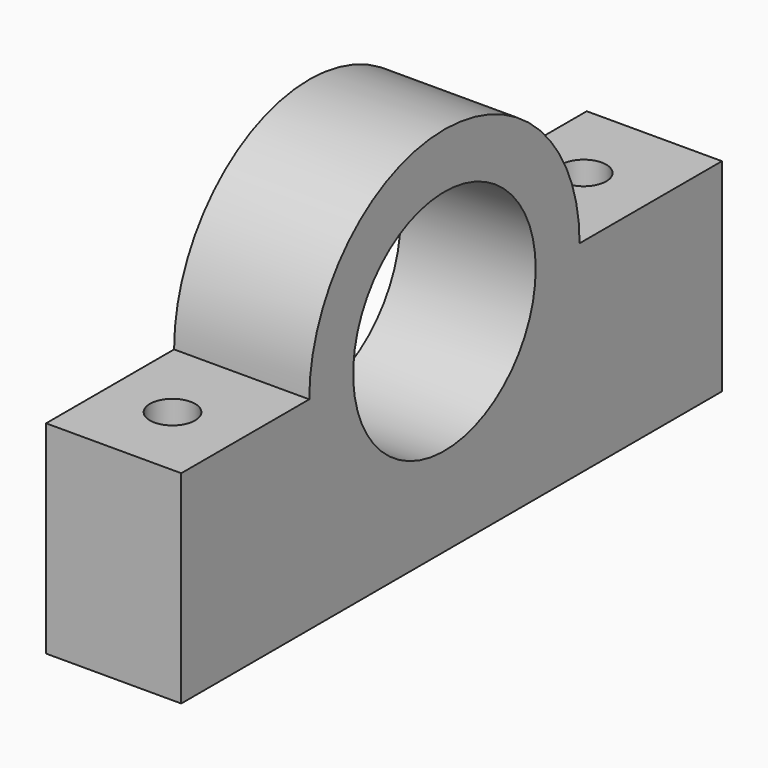
from build123d import *

# Parameters (mm, degrees)
F1_DEPTH = 12.7
F2_R     = 2.1209
F3_DEPTH = 25.4
F4_R     = 2.1209
F5_DEPTH = 25.4


with BuildPart() as f1:
    # F0 (on Right) → F1 (new body)
    with BuildSketch(Plane.YZ):
        with BuildLine():
            Line((10.7188, 0), (15.875, 0))
            ThreePointArc((15.875, 0), (0, 15.875), (-15.875, 0))
            Line((-15.875, 0), (-10.7188, 0))
            ThreePointArc((-10.7188, 0), (0, 10.7188), (10.7188, 0))
        make_face()
        with BuildLine():
            Line((32.5907057375, 0), (15.875, 0))
            ThreePointArc((15.875, 0), (0, -15.875), (-15.875, 0))
            Line((-15.875, 0), (-30.9092942625, 0))
            Line((-30.9092942625, 0), (-30.9092942625, -19.05))
            Line((-30.9092942625, -19.05), (32.5907057375, -19.05))
            Line((32.5907057375, -19.05), (32.5907057375, 0))
        make_face()
        with BuildLine():
            ThreePointArc((-15.875, 0), (0, -15.875), (15.875, 0))
            Line((15.875, 0), (10.7188, 0))
            ThreePointArc((10.7188, 0), (0, -10.7188), (-10.7188, 0))
            Line((-10.7188, 0), (-15.875, 0))
        make_face()
    extrude(amount=F1_DEPTH)

    # F2 (on face) → F3 (cut)
    with BuildSketch(Plane.XY):
        with Locations((5.9564788826, 24.7918274254)):
            Circle(F2_R)
    extrude(amount=-F3_DEPTH, mode=Mode.SUBTRACT)

    # F4 (on face) → F5 (cut)
    with BuildSketch(Plane.XY):
        with Locations((6.1368788593, -23.7293746322)):
            Circle(F4_R)
    extrude(amount=-F5_DEPTH, mode=Mode.SUBTRACT)


solid = f1.part
